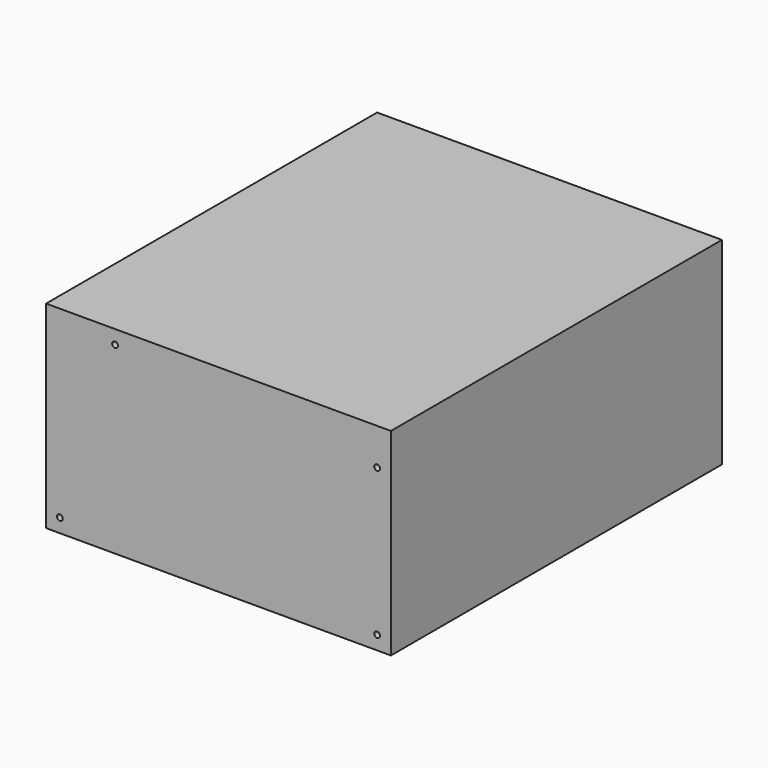
from build123d import *

# Parameters (mm, degrees)
SKETCH_W    = 150
SKETCH_H    = 180
PAD_DEPTH   = 43
SKETCH001_R = 1.25
HOLE_DEPTH  = 6
HOLE_TIPS_R = 1.25


with BuildPart() as part:
    # Sketch → Pad (new body, symmetric)
    with BuildSketch(Plane.XY):
        with Locations((0, 90)):
            Rectangle(SKETCH_W, SKETCH_H)
    extrude(amount=PAD_DEPTH, both=True)

    # Sketch001 → Hole (cut)
    with BuildSketch(Plane.XZ):
        with Locations((69, -37)):
            Circle(SKETCH001_R)
        with Locations((69, 27)):
            Circle(SKETCH001_R)
        with Locations((-45, 37)):
            Circle(SKETCH001_R)
        with Locations((-69, -37)):
            Circle(SKETCH001_R)
    extrude(amount=-HOLE_DEPTH, mode=Mode.SUBTRACT)

    # Hole tips → Hole tip 1 section 0
    with BuildSketch(Plane.XZ.offset(-6), mode=Mode.PRIVATE) as hole_tip_1_s0:
        with Locations((69, -37)):
            Circle(HOLE_TIPS_R)
    loft([hole_tip_1_s0.sketch, Vertex(69, 6.751076, -37)], mode=Mode.SUBTRACT)

    # Hole tips → Hole tip 2 section 0
    with BuildSketch(Plane.XZ.offset(-6), mode=Mode.PRIVATE) as hole_tip_2_s0:
        with Locations((69, 27)):
            Circle(HOLE_TIPS_R)
    loft([hole_tip_2_s0.sketch, Vertex(69, 6.751076, 27)], mode=Mode.SUBTRACT)

    # Hole tips → Hole tip 3 section 0
    with BuildSketch(Plane.XZ.offset(-6), mode=Mode.PRIVATE) as hole_tip_3_s0:
        with Locations((-45, 37)):
            Circle(HOLE_TIPS_R)
    loft([hole_tip_3_s0.sketch, Vertex(-45, 6.751076, 37)], mode=Mode.SUBTRACT)

    # Hole tips → Hole tip 4 section 0
    with BuildSketch(Plane.XZ.offset(-6), mode=Mode.PRIVATE) as hole_tip_4_s0:
        with Locations((-69, -37)):
            Circle(HOLE_TIPS_R)
    loft([hole_tip_4_s0.sketch, Vertex(-69, 6.751076, -37)], mode=Mode.SUBTRACT)


solid = part.part
